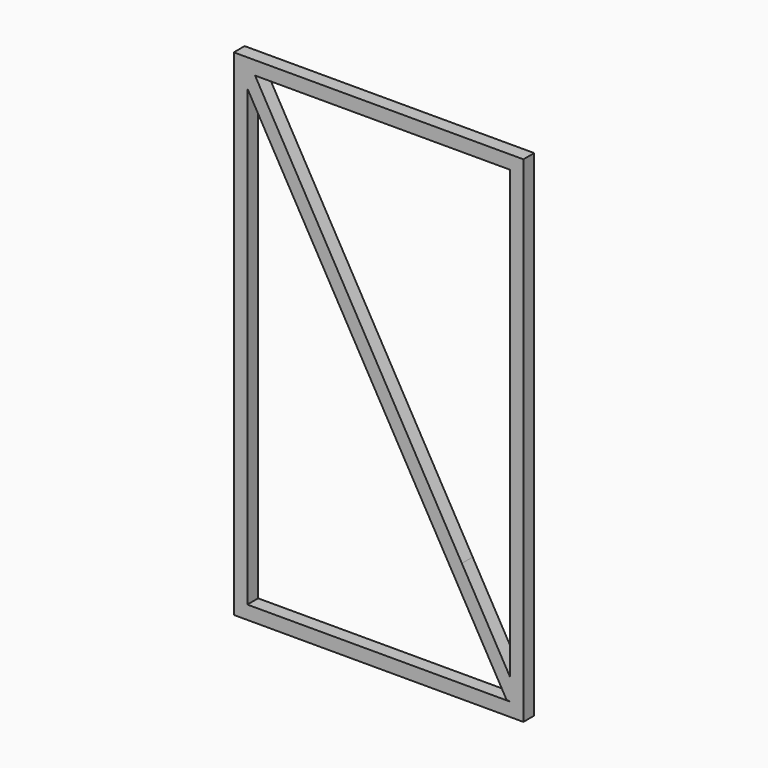
from build123d import *

# Parameters (mm, degrees)
F0_W     = 970
F0_H     = 1730
F1_DEPTH = 50
F3_DEPTH = 50


with BuildPart() as f1:
    # F0 (on Front) → F1 (new body)
    with BuildSketch(Plane.XZ):
        Polygon((1020, 0), (0, 0), (0, -1830), (1070, -1830), (1070, 0), align=None)
        with Locations((535, -915)):
            Rectangle(F0_W, F0_H, mode=Mode.SUBTRACT)
    extrude(amount=F1_DEPTH)

    # F2 (on Front) → F3 (join)
    with BuildSketch(Plane.XZ):
        Polygon((1041.897844, -1737.005164), (842.641968, -1388.040984), (78.297675, -49.416571), (49.824655, -49.968854), (47.816185, -96.869479), (155.709775, -285.827511), (861.881588, -1522.572309), (1007.799248, -1778.123299), (1039.504766, -1783.232212), align=None)
    extrude(amount=F3_DEPTH)


solid = f1.part
